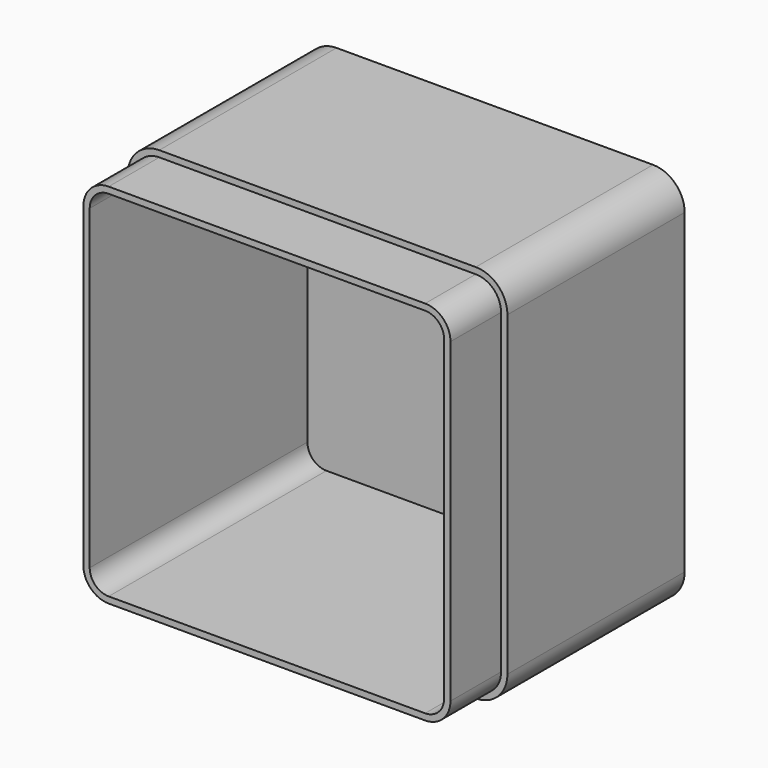
from build123d import *

# Parameters (mm, degrees)
F0_W     = 120
F0_H     = 120
F1_DEPTH = 90
F2_R     = 10
F3_T     = -4
F5_DEPTH = 20


with BuildPart() as f1:
    # F0 (on Front) → F1 (new body)
    with BuildSketch(Plane.XZ):
        with Locations((60, 60)):
            Rectangle(F0_W, F0_H)
    extrude(amount=F1_DEPTH)

    # F2
    f2_edges = [f1.edges().sort_by_distance(p)[0] for p in [
        (0, -45, 120),
        (120, -45, 120),
        (120, -45, 0),
        (0, -45, 0),
    ]]
    fillet(f2_edges, radius=F2_R)

    # F3
    f3_openings = [f1.faces().sort_by_distance(p)[0] for p in [
        (60, -90, 60),
    ]]
    offset(amount=F3_T, openings=f3_openings)

    # F4 (on face) → F5 (cut)
    with BuildSketch(Plane.XZ.offset(90)):
        with BuildLine():
            ThreePointArc((10, 120), (2.9289321881, 117.0710678119), (0, 110))
            Line((0, 110), (0, 10))
            ThreePointArc((0, 10), (2.9289321881, 2.9289321881), (10, 0))
            Line((10, 0), (110, 0))
            ThreePointArc((110, 0), (117.0710678119, 2.9289321881), (120, 10))
            Line((120, 10), (120, 110))
            ThreePointArc((120, 110), (117.0710678119, 117.0710678119), (110, 120))
            Line((110, 120), (10, 120))
        make_face()
        with BuildLine():
            ThreePointArc((2, 110), (4.3431457505, 115.6568542495), (10, 118))
            Line((10, 118), (110, 118))
            ThreePointArc((110, 118), (115.6568542495, 115.6568542495), (118, 110))
            Line((118, 110), (118, 10))
            ThreePointArc((118, 10), (115.6568542495, 4.3431457505), (110, 2))
            Line((110, 2), (10, 2))
            ThreePointArc((10, 2), (4.3431457505, 4.3431457505), (2, 10))
            Line((2, 10), (2, 110))
        make_face(mode=Mode.SUBTRACT)
    extrude(amount=-F5_DEPTH, mode=Mode.SUBTRACT)


solid = f1.part
